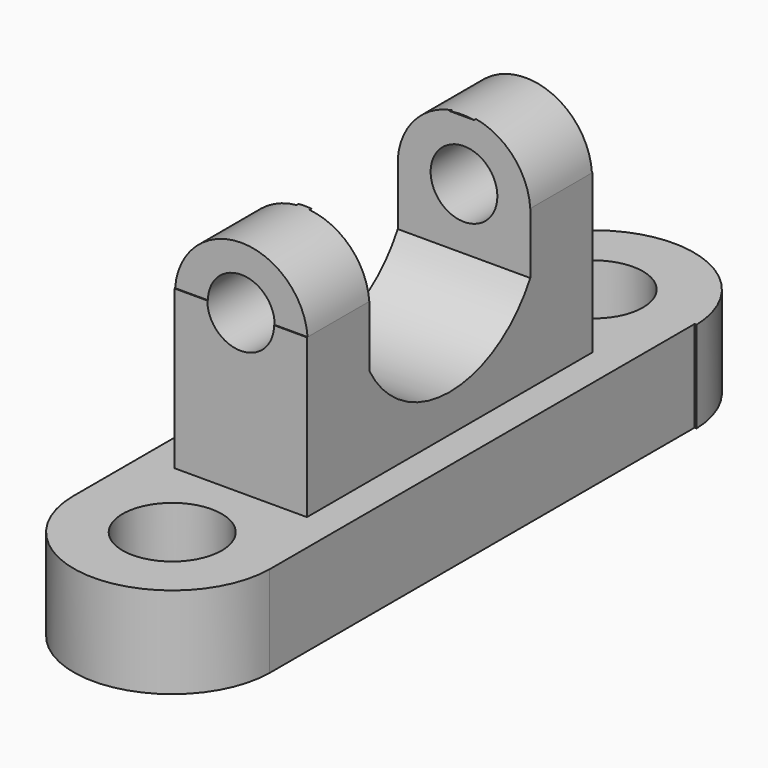
from build123d import *

# Parameters (mm, degrees)
F0_W      = 41.12726
F0_H      = 110.894836
F1_DEPTH  = 19.05
F3_DEPTH  = 19.05
F5_DEPTH  = 19.05
F6_W      = 27.651456
F6_H      = 74.505314
F7_DEPTH  = 33.02
F9_DEPTH  = 37.084
F11_DEPTH = 37.084
F12_R     = 6.963256
F13_DEPTH = 112.828874
F14_W     = 41.989248
F14_H     = 25.538178
F15_DEPTH = 34.56532
F16_W     = 40.965122
F16_H     = 20.482562
F17_DEPTH = 34.821354
F18_R     = 10.243282
F19_DEPTH = 19.051
F20_R     = 10.356495
F21_DEPTH = 19.051


with BuildPart() as f1:
    # F0 (on Top) → F1 (new body)
    with BuildSketch(Plane.XY):
        Rectangle(F0_W, F0_H)
    extrude(amount=F1_DEPTH)

    # F2 (on Top) → F3 (join)
    with BuildSketch(Plane.XY):
        with BuildLine():
            Line((-20.738592, 55.430926), (20.994626, 55.430926))
            ThreePointArc((20.994626, 55.430926), (0.128017, 75.575216), (-20.738592, 55.430926))
        make_face()
    extrude(amount=F3_DEPTH)

    # F4 (on Top) → F5 (join)
    with BuildSketch(Plane.XY):
        with BuildLine():
            ThreePointArc((-20.56363, -55.447418), (0, -75.683733), (20.56363, -55.447418))
            Line((20.56363, -55.447418), (-20.56363, -55.447418))
        make_face()
    extrude(amount=F5_DEPTH)

    # F6 (on face) → F7 (join)
    with BuildSketch(Plane.XY.offset(19.05)):
        Rectangle(F6_W, F6_H)
    extrude(amount=F7_DEPTH)

    # F8 (on Front) → F9 (join)
    with BuildSketch(Plane.XZ):
        with BuildLine():
            Line((-13.825728, 52.07), (13.825728, 52.07))
            ThreePointArc((13.825728, 52.07), (0, 64.904116), (-13.825728, 52.07))
        make_face()
    extrude(amount=F9_DEPTH)

    # F10 (on Front) → F11 (join)
    with BuildSketch(Plane.XZ):
        with BuildLine():
            Line((-13.825728, 52.07), (13.825728, 52.07))
            ThreePointArc((13.825728, 52.07), (0, 65.062803), (-13.825728, 52.07))
        make_face()
    extrude(amount=-F11_DEPTH)

    # F12 (on face) → F13 (cut, through all)
    with BuildSketch(Plane.XZ.offset(37.252657)):
        with Locations((0, 52.07)):
            Circle(F12_R)
    extrude(amount=-F13_DEPTH, mode=Mode.SUBTRACT)

    # F14 (on face) → F15 (cut, through all)
    with BuildSketch(Plane.YZ.offset(13.825728)):
        with Locations((0, 52.07)):
            Rectangle(F14_W, F14_H)
        with BuildLine():
            Line((20.994624, 39.300911), (-20.994624, 39.300911))
            ThreePointArc((-20.994624, 39.300911), (0, 26.893632), (20.994624, 39.300911))
        make_face()
    extrude(amount=-F15_DEPTH, mode=Mode.SUBTRACT)

    # F16 (on face) → F17 (cut, through all)
    with BuildSketch(Plane(origin=(-13.825728, 0, 0), x_dir=(0, -1, 0), z_dir=(-1, 0, 0))):
        with Locations((0, 56.711089)):
            Rectangle(F16_W, F16_H)
    extrude(amount=-F17_DEPTH, mode=Mode.SUBTRACT)

    # F18 (on face) → F19 (cut, through all)
    with BuildSketch(Plane.XY.offset(19.05)):
        with Locations((0.128017, 54.695657)):
            Circle(F18_R)
    extrude(amount=-F19_DEPTH, mode=Mode.SUBTRACT)

    # F20 (on face) → F21 (cut, through all)
    with BuildSketch(Plane.XY.offset(19.05)):
        with Locations((0, -55.117455)):
            Circle(F20_R)
    extrude(amount=-F21_DEPTH, mode=Mode.SUBTRACT)


solid = f1.part
